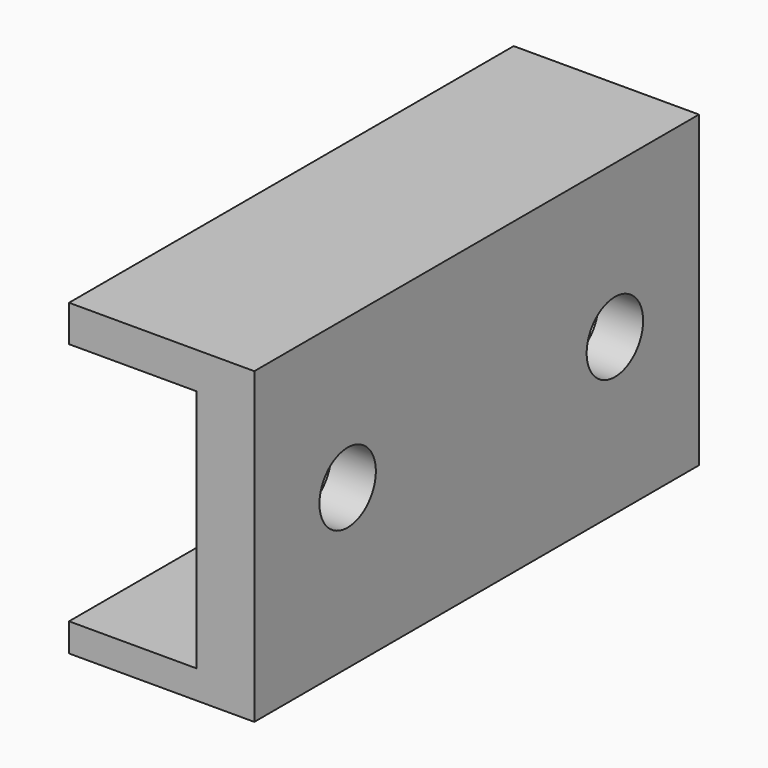
from build123d import *

# Parameters (mm, degrees)
F0_W     = 36
F0_H     = 20
F1_DEPTH = 12
F2_W     = 43.75383
F2_H     = 15.8
F3_DEPTH = 8.24
F4_R     = 2.285
F5_DEPTH = 34.9
F6_R     = 4.215
F7_DEPTH = 9.1


with BuildPart() as f1:
    # F0 (on Right) → F1 (new body)
    with BuildSketch(Plane.YZ):
        with Locations((-48.512831, 15.170117)):
            Rectangle(F0_W, F0_H)
    extrude(amount=F1_DEPTH)

    # F2 (on Right) → F3 (cut)
    with BuildSketch(Plane.YZ):
        with Locations((-48.435772, 14.905577)):
            Rectangle(F2_W, F2_H)
    extrude(amount=F3_DEPTH, mode=Mode.SUBTRACT)

    # F4 (on Right) → F5 (cut)
    with BuildSketch(Plane.YZ):
        with Locations((-37.319533, 15.256222)):
            Circle(F4_R)
        with Locations((-58.956481, 15.463678)):
            Circle(F4_R)
    extrude(amount=F5_DEPTH, mode=Mode.SUBTRACT)

    # F6 (on Right) → F7 (cut)
    with BuildSketch(Plane.YZ):
        with Locations((-37.319533, 15.256222)):
            Circle(F6_R)
        with Locations((-58.956481, 15.463678)):
            Circle(F6_R)
    extrude(amount=F7_DEPTH, mode=Mode.SUBTRACT)


solid = f1.part
